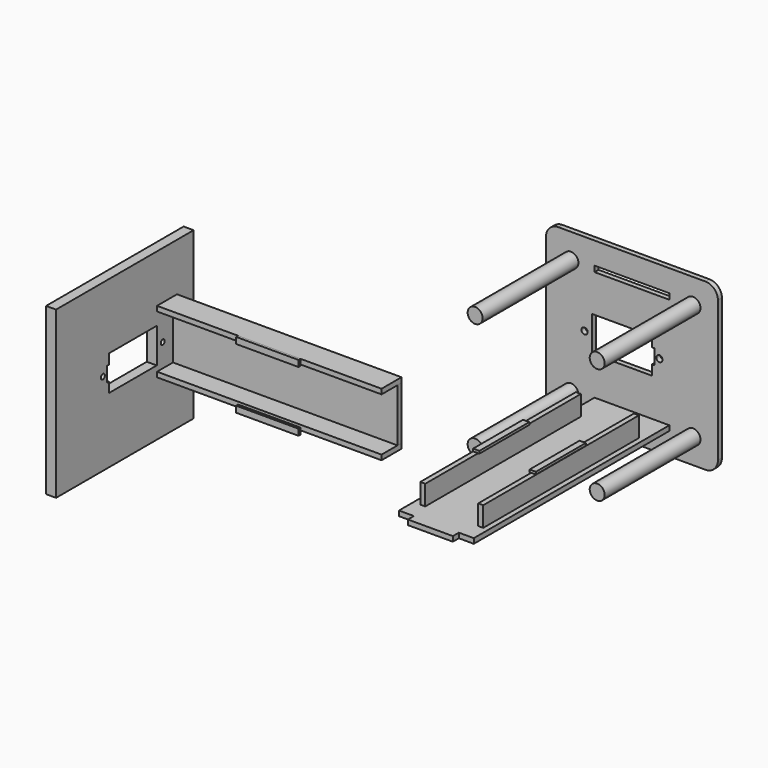
from build123d import *

# Parameters (mm, degrees)
F0_R      = 3
F1_DEPTH  = 50
F0_W      = 68.9338020737
F0_H      = 66.44398
F0_W_2    = 30
F0_H_2    = 2
F0_R_2    = 1.25
F0_H_3    = 2.3
F2_DEPTH  = 2
F0_W_3    = 90
F3_DEPTH  = 10
F0_H_4    = 21.25
F4_DEPTH  = 2
F5_W      = 25
F5_H      = 2.5
F6_DEPTH  = 1
F7_R      = 5
F8_W      = 68.9338020737
F8_H      = 66.44398
F8_R      = 1
F8_W_2    = 2
F8_H_2    = 21.25
F9_DEPTH  = 4
F10_DEPTH = 100
F11_W     = 2
F11_H     = 78
F12_DEPTH = 8
F13_W     = 2.5
F13_H     = 25
F14_DEPTH = 1
F15_W     = 18
F15_H     = 2
F16_DEPTH = 3


with BuildPart() as f1:
    # F0 (on Front) → F1 (new body)
    with BuildSketch(Plane.XZ):
        with Locations((-191.2514259544, 38.213372719)):
            Circle(F0_R)
    extrude(amount=F1_DEPTH)


with BuildPart() as f1b:
    # F0 (on Front) → F1, piece 2 (new body)
    with BuildSketch(Plane.XZ):
        with Locations((-142.3176238808, 38.213372719)):
            Circle(F0_R)
    extrude(amount=F1_DEPTH)


with BuildPart() as f1c:
    # F0 (on Front) → F1, piece 3 (new body)
    with BuildSketch(Plane.XZ):
        with Locations((-142.3176238808, -8.230607281)):
            Circle(F0_R)
    extrude(amount=F1_DEPTH)


with BuildPart() as f1d:
    # F0 (on Front) → F1, piece 4 (new body)
    with BuildSketch(Plane.XZ):
        with Locations((-191.2514259544, -8.230607281)):
            Circle(F0_R)
    extrude(amount=F1_DEPTH)


with BuildPart() as f2:
    # F0 (on Front) → F2 (new body)
    with BuildSketch(Plane.XZ):
        with Locations((-166.7845249176, 14.991382719)):
            Rectangle(F0_W, F0_H)
        with Locations((-191.2514259544, -8.230607281)):
            Circle(F0_R, mode=Mode.SUBTRACT)
        with Locations((-166.7845249176, -8.230607281)):
            Rectangle(F0_W_2, F0_H_2, mode=Mode.SUBTRACT)
        with Locations((-142.3176238808, -8.230607281)):
            Circle(F0_R, mode=Mode.SUBTRACT)
        with Locations((-185.7845249176, 14.991382719)):
            Circle(F0_R_2, mode=Mode.SUBTRACT)
        Polygon((-182.7845249176, 21.991382719), (-158.7845249176, 21.991382719), (-158.7845249176, 17.991382719), (-157.7845249176, 17.991382719), (-157.7845249176, 11.991382719), (-158.7845249176, 11.991382719), (-158.7845249176, 7.991382719), (-182.7845249176, 7.991382719), align=None, mode=Mode.SUBTRACT)
        with Locations((-155.7845249176, 14.991382719)):
            Circle(F0_R_2, mode=Mode.SUBTRACT)
        with Locations((-191.2514259544, 38.213372719)):
            Circle(F0_R, mode=Mode.SUBTRACT)
        with Locations((-166.7845249176, 38.213372719)):
            Rectangle(F0_W_2, F0_H_3, mode=Mode.SUBTRACT)
        with Locations((-142.3176238808, 38.213372719)):
            Circle(F0_R, mode=Mode.SUBTRACT)
    extrude(amount=F2_DEPTH)

    # F7
    f7_edges = [f2.edges().sort_by_distance(p)[0] for p in [
        (-201.251426, -1, 48.213373),
        (-132.317624, -1, 48.213373),
        (-132.317624, -1, -18.230607),
        (-201.251426, -1, -18.230607),
    ]]
    fillet(f7_edges, radius=F7_R)

    # F0 (on Front) → F10 (join)
    with BuildSketch(Plane.XZ):
        with Locations((-166.7845249176, -8.230607281)):
            Rectangle(F0_W_2, F0_H_2)
    extrude(amount=F10_DEPTH)

    # F11 (on face) → F12 (join)
    with BuildSketch(Plane.XY.offset(-7.230607281)):
        with Locations((-178.0836216211, -53.7072308362)):
            Rectangle(F11_W, F11_H)
        with Locations((-154.8336216211, -53.7072308362)):
            Rectangle(F11_W, F11_H)
    extrude(amount=F12_DEPTH)

    # F13 (on face) → F14 (join)
    with BuildSketch(Plane.XY.offset(0.769392719)):
        with Locations((-177.8336216211, -53.7072308362)):
            Rectangle(F13_W, F13_H)
        with Locations((-155.1746141911, -53.7072308362)):
            Rectangle(F13_W, F13_H)
    extrude(amount=F14_DEPTH)

    # F15 (on face) → F16 (join)
    with BuildSketch(Plane.XZ.offset(100)):
        with Locations((-166.7845249176, -8.230607281)):
            Rectangle(F15_W, F15_H)
    extrude(amount=F16_DEPTH)


with BuildPart() as f3:
    # F0 (on Front) → F3 (new body)
    with BuildSketch(Plane.XZ):
        with Locations((-305.766658783, -27.5253735185)):
            Rectangle(F0_W_3, F0_H_2)
    extrude(amount=F3_DEPTH)


with BuildPart() as f3b:
    # F0 (on Front) → F3, piece 2 (new body)
    with BuildSketch(Plane.XZ):
        with Locations((-305.766658783, -50.7753735185)):
            Rectangle(F0_W_3, F0_H_2)
    extrude(amount=F3_DEPTH)


with BuildPart() as f4:
    # F0 (on Front) → F4 (new body)
    with BuildSketch(Plane.XZ):
        with Locations((-305.766658783, -39.1503735185)):
            Rectangle(F0_W_3, F0_H_4)
    extrude(amount=F4_DEPTH)


with BuildPart() as f6:
    # F5 (on face) → F6 (new body)
    with BuildSketch(Plane.XZ.offset(10)):
        with Locations((-305.766658783, -27.7753735185)):
            Rectangle(F5_W, F5_H)
    extrude(amount=F6_DEPTH)


with BuildPart() as f6b:
    # F5 (on face) → F6, piece 2 (new body)
    with BuildSketch(Plane.XZ.offset(10)):
        with Locations((-305.766658783, -52.0439434052)):
            Rectangle(F5_W, F5_H)
    extrude(amount=F6_DEPTH)


with BuildPart() as f9:
    # F8 (on face) → F9 (new body)
    with BuildSketch(Plane(origin=(-350.766658783, 0, 0), x_dir=(0, -1, 0), z_dir=(-1, 0, 0))):
        with Locations((26.1306043836, -40.5144899269)):
            Rectangle(F8_W, F8_H)
        with Locations((7.1306043836, -40.5144899269)):
            Circle(F8_R, mode=Mode.SUBTRACT)
        with Locations((37.1306043836, -40.5144899269)):
            Circle(F8_R, mode=Mode.SUBTRACT)
        with Locations((1, -39.1503735185)):
            Rectangle(F8_W_2, F8_H_2, mode=Mode.SUBTRACT)
        Polygon((10.1306043836, -33.5144899269), (34.1306043836, -33.5144899269), (34.1306043836, -37.5144899269), (35.1306043836, -37.5144899269), (35.1306043836, -43.5144899269), (34.1306043836, -43.5144899269), (34.1306043836, -47.5144899269), (10.1306043836, -47.5144899269), align=None, mode=Mode.SUBTRACT)
        with Locations((1, -39.1503735185)):
            Rectangle(F8_W_2, F8_H_2)
    extrude(amount=F9_DEPTH)


solid = Compound([f1.part, f1b.part, f1c.part, f1d.part, f2.part, f3.part, f3b.part, f4.part, f6.part, f6b.part, f9.part])
